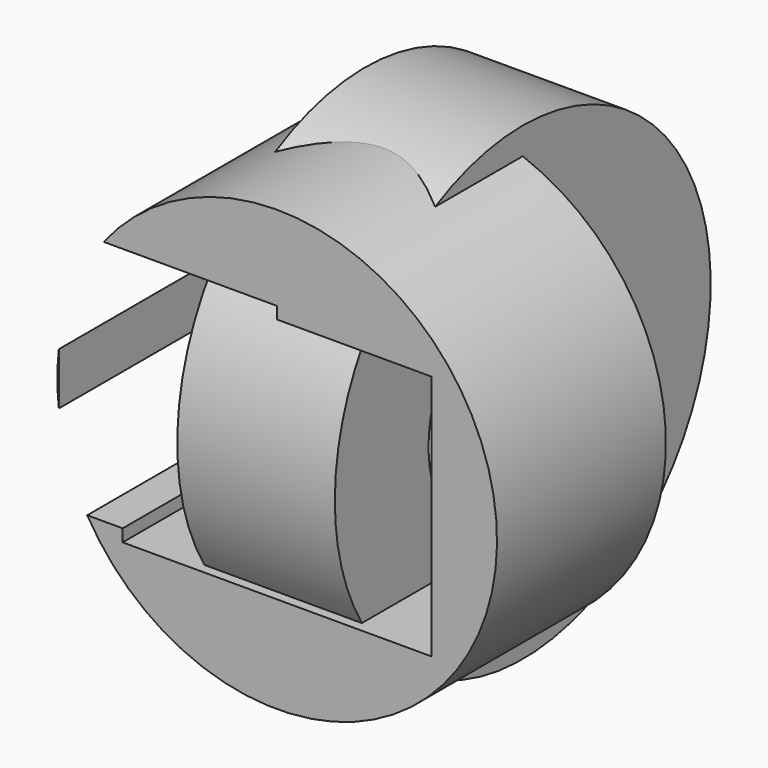
from build123d import *

# Parameters (mm, degrees)
F0_R     = 45.342511
F0_W     = 63.701598
F0_H     = 50.8
F1_DEPTH = 43.541595
F2_W     = 74.988289
F2_H     = 50.727981
F3_DEPTH = 45.021635
F4_W     = 32.488421
F4_H     = 24.141245


with BuildPart() as f1:
    # F0 (on Front) → F1 (new body)
    with BuildSketch(Plane.XZ):
        Circle(F0_R)
        Rectangle(F0_W, F0_H, mode=Mode.SUBTRACT)
    extrude(amount=F1_DEPTH)

    # F2 (on Right) → F3 (cut)
    with BuildSketch(Plane.YZ):
        with Locations((-19.281947, 2.510205)):
            Rectangle(F2_W, F2_H)
    extrude(amount=-F3_DEPTH, mode=Mode.SUBTRACT)

    # F4 (on Front) → F5 (revolve)
    with BuildSketch(Plane.XZ):
        with Locations((-0.430005, 36.010887)):
            Rectangle(F4_W, F4_H)
    revolve(axis=Axis((39.093187, 0, -0.357915), (-1, 0, 0)))


solid = f1.part
